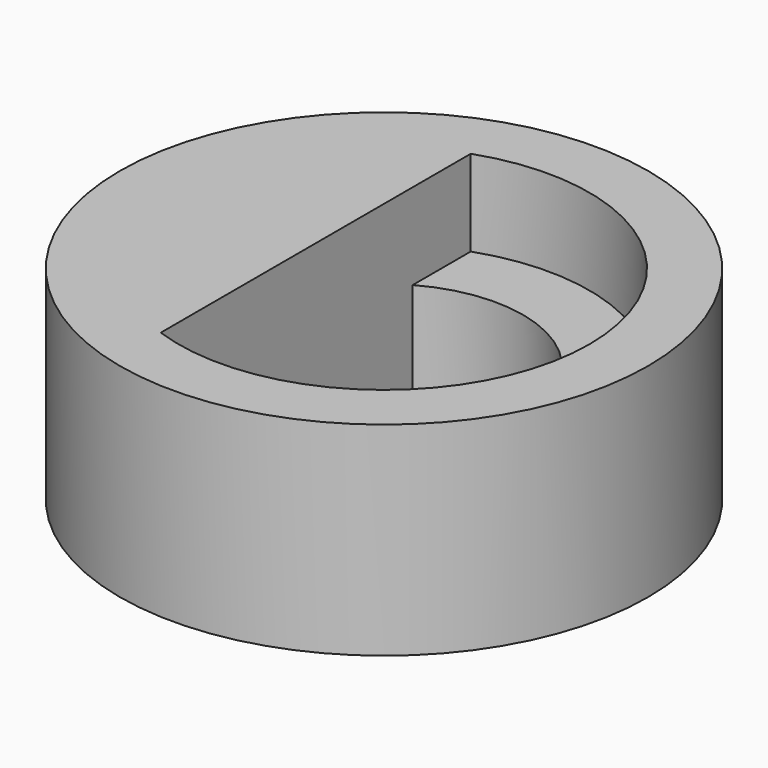
from build123d import *

# Parameters (mm, degrees)
F1_DEPTH = 3
F0_R     = 6.75
F2_DEPTH = 5.2


with BuildPart() as f1:
    # F0 (on Top) → F1 (new body)
    with BuildSketch(Plane.XY):
        with BuildLine():
            ThreePointArc((-1.745, 3.0972568508), (1.7936763922, 3.0693240298), (3.555, 0))
            ThreePointArc((3.555, 0), (1.7936763922, -3.0693240298), (-1.745, -3.0972568508))
            Line((-1.745, -3.0972568508), (-1.745, -4.9515123952))
            ThreePointArc((-1.745, -4.9515123952), (3.0332532041, -4.2850758453), (5.25, 0))
            ThreePointArc((5.25, 0), (3.0332532041, 4.2850758453), (-1.745, 4.9515123952))
            Line((-1.745, 4.9515123952), (-1.745, 3.0972568508))
        make_face()
    extrude(amount=F1_DEPTH)

    # F0 (on Top) → F2 (join)
    with BuildSketch(Plane.XY):
        Circle(F0_R)
        with BuildLine():
            ThreePointArc((-1.745, -4.9515123952), (-5.25, 0), (-1.745, 4.9515123952))
            ThreePointArc((-1.745, 4.9515123952), (3.0332532041, 4.2850758453), (5.25, 0))
            ThreePointArc((5.25, 0), (3.0332532041, -4.2850758453), (-1.745, -4.9515123952))
        make_face(mode=Mode.SUBTRACT)
        with BuildLine():
            ThreePointArc((-1.745, -3.0972568508), (-3.555, 0), (-1.745, 3.0972568508))
            Line((-1.745, 3.0972568508), (-1.745, 4.9515123952))
            ThreePointArc((-1.745, 4.9515123952), (-5.25, 0), (-1.745, -4.9515123952))
            Line((-1.745, -4.9515123952), (-1.745, -3.0972568508))
        make_face()
        with BuildLine():
            Line((-1.745, 0), (-1.745, 3.0972568508))
            ThreePointArc((-1.745, 3.0972568508), (-3.555, 0), (-1.745, -3.0972568508))
            Line((-1.745, -3.0972568508), (-1.745, 0))
        make_face()
    extrude(amount=F2_DEPTH)


solid = f1.part
